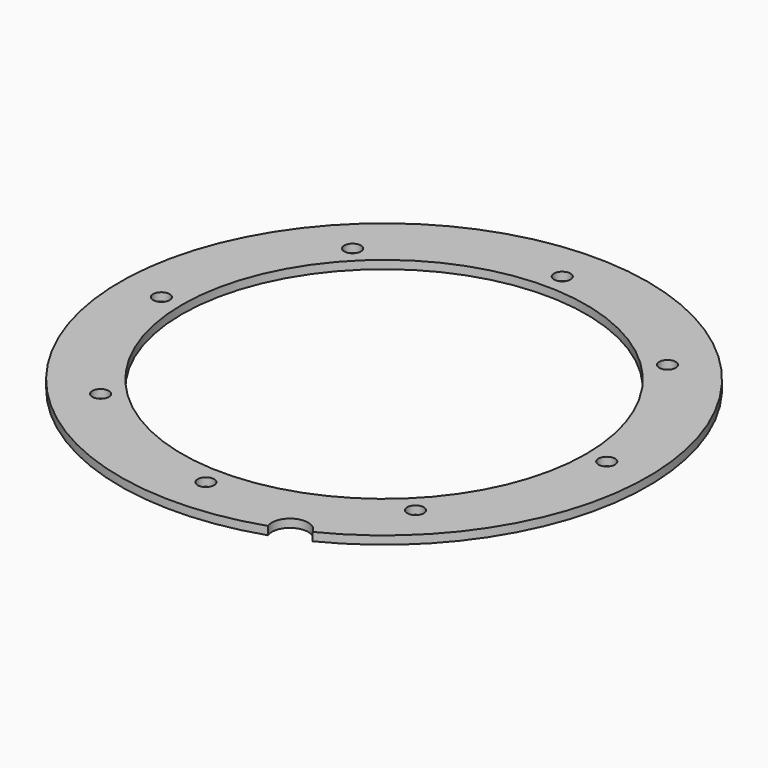
from build123d import *

# Parameters (mm, degrees)
CYLINDER1267_R               = 2.2
CYLINDER1267_DEPTH           = 15
CYLINDER1267_PLACEMENT_ANGLE = 22.5
CYLINDER1272_R               = 1
CYLINDER1272_DEPTH           = 20
CYLINDER1272_PLACEMENT_ANGLE = 45
CYLINDER1266_R               = 1
CYLINDER1266_DEPTH           = 20
CYLINDER1277_R               = 1
CYLINDER1277_DEPTH           = 20
CYLINDER1277_PLACEMENT_ANGLE = 135
CYLINDER1269_R               = 1
CYLINDER1269_DEPTH           = 20
CYLINDER1275_R               = 1
CYLINDER1275_DEPTH           = 20
CYLINDER1275_PLACEMENT_ANGLE = 225
CYLINDER1274_R               = 1
CYLINDER1274_DEPTH           = 20
CYLINDER1270_R               = 1
CYLINDER1270_DEPTH           = 20
CYLINDER1270_PLACEMENT_ANGLE = 45
CYLINDER1276_R               = 1
CYLINDER1276_DEPTH           = 20
TUBE051_R                    = 32
TUBE051_R_2                  = 24.5
TUBE051_DEPTH                = 1


with BuildPart() as obj1:
    # Cylinder1267 → Cylinder1267 (new body)
    with BuildSketch(Plane.XY):
        Circle(CYLINDER1267_R)
    extrude(amount=CYLINDER1267_DEPTH)


with BuildPart() as obj1_1:
    # Cylinder1267 placement: moved
    add(obj1.part.moved(Location((12.24587, -29.564145, 20))).rotate(Axis((12.24587, -29.564145, 20), (0, 0, 1)), CYLINDER1267_PLACEMENT_ANGLE))


with BuildPart() as obj2:
    # Cylinder1272 → Cylinder1272 (new body)
    with BuildSketch(Plane.XY):
        Circle(CYLINDER1272_R)
    extrude(amount=CYLINDER1272_DEPTH)


with BuildPart() as obj2_1:
    # Cylinder1272 placement: moved
    add(obj2.part.moved(Location((-19.091883, 19.091883, 19))).rotate(Axis((-19.091883, 19.091883, 19), (0, 0, 1)), CYLINDER1272_PLACEMENT_ANGLE))


with BuildPart() as obj3:
    # Cylinder1266 → Cylinder1266 (new body)
    with BuildSketch(Plane(origin=(-27, 0, 19), x_dir=(0, 1, 0), z_dir=(0, 0, 1))):
        Circle(CYLINDER1266_R)
    extrude(amount=CYLINDER1266_DEPTH)


with BuildPart() as obj4:
    # Cylinder1277 → Cylinder1277 (new body)
    with BuildSketch(Plane.XY):
        Circle(CYLINDER1277_R)
    extrude(amount=CYLINDER1277_DEPTH)


with BuildPart() as obj4_1:
    # Cylinder1277 placement: moved
    add(obj4.part.moved(Location((-19.091883, -19.091883, 19))).rotate(Axis((-19.091883, -19.091883, 19), (0, 0, 1)), CYLINDER1277_PLACEMENT_ANGLE))


with BuildPart() as obj5:
    # Cylinder1269 → Cylinder1269 (new body)
    with BuildSketch(Plane(origin=(0, -27, 19), x_dir=(-1, 0, 0), z_dir=(0, 0, 1))):
        Circle(CYLINDER1269_R)
    extrude(amount=CYLINDER1269_DEPTH)


with BuildPart() as obj6:
    # Cylinder1275 → Cylinder1275 (new body)
    with BuildSketch(Plane.XY):
        Circle(CYLINDER1275_R)
    extrude(amount=CYLINDER1275_DEPTH)


with BuildPart() as obj6_1:
    # Cylinder1275 placement: moved
    add(obj6.part.moved(Location((19.091883, -19.091883, 19))).rotate(Axis((19.091883, -19.091883, 19), (0, 0, 1)), CYLINDER1275_PLACEMENT_ANGLE))


with BuildPart() as obj7:
    # Cylinder1274 → Cylinder1274 (new body)
    with BuildSketch(Plane(origin=(27, 0, 19), x_dir=(0, -1, 0), z_dir=(0, 0, 1))):
        Circle(CYLINDER1274_R)
    extrude(amount=CYLINDER1274_DEPTH)


with BuildPart() as obj8:
    # Cylinder1270 → Cylinder1270 (new body)
    with BuildSketch(Plane.XY):
        Circle(CYLINDER1270_R)
    extrude(amount=CYLINDER1270_DEPTH)


with BuildPart() as obj8_1:
    # Cylinder1270 placement: moved
    add(obj8.part.moved(Location((19.091883, 19.091883, 19))).rotate(Axis((19.091883, 19.091883, 19), (0, 0, -1)), CYLINDER1270_PLACEMENT_ANGLE))


with BuildPart() as compound677:
    # Cylinder1276 → Cylinder1276 (new body)
    with BuildSketch(Plane(origin=(0, 27, 19), x_dir=(1, 0, 0), z_dir=(0, 0, 1))):
        Circle(CYLINDER1276_R)
    extrude(amount=CYLINDER1276_DEPTH)

    # Compound677: union obj2, obj3, obj4, obj5, obj6, obj7, obj8
    add(obj2_1.part)
    add(obj3.part)
    add(obj4_1.part)
    add(obj5.part)
    add(obj6_1.part)
    add(obj7.part)
    add(obj8_1.part)


with BuildPart() as cut479:
    # Tube051 → Tube051 (new body)
    with BuildSketch(Plane.XY.offset(25)):
        Circle(TUBE051_R)
        Circle(TUBE051_R_2, mode=Mode.SUBTRACT)
    extrude(amount=TUBE051_DEPTH)

    # Cut476: cut Compound677
    add(compound677.part, mode=Mode.SUBTRACT)

    # Cut479: cut obj1
    add(obj1_1.part, mode=Mode.SUBTRACT)


solid = cut479.part
